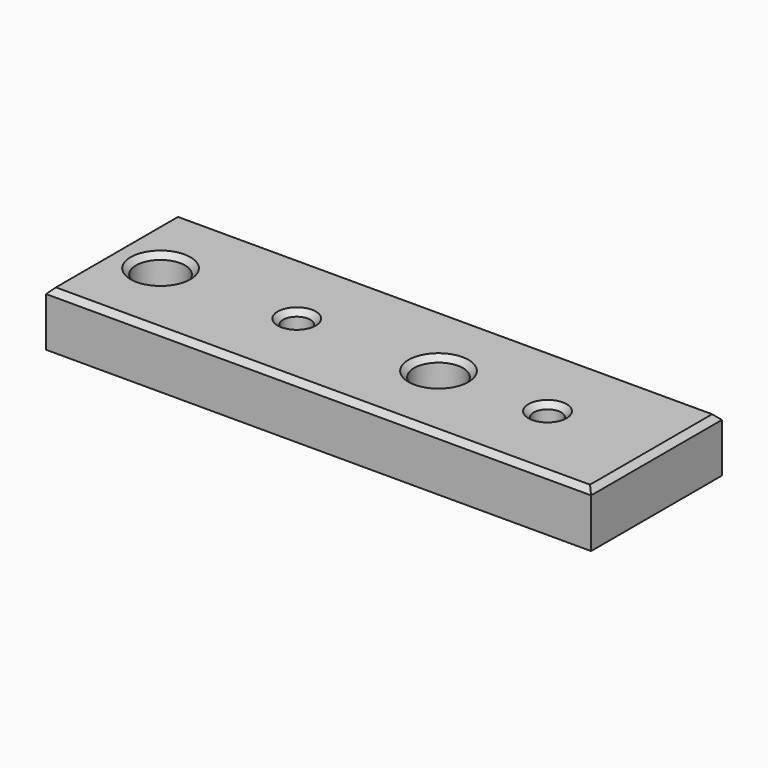
from build123d import *

# Parameters (mm, degrees)
F0_W     = 100
F0_H     = 30
F0_R     = 4.5
F0_R_2   = 2.5
F1_DEPTH = 10
F2_SIZE  = 1
F3_SIZE  = 1


with BuildPart() as f1:
    # F0 (on Top) → F1 (new body)
    with BuildSketch(Plane.XY):
        with Locations((-0.392441, 4.993296)):
            Rectangle(F0_W, F0_H)
        with Locations((-41.392441, 4.993296)):
            Circle(F0_R, mode=Mode.SUBTRACT)
        with Locations((-16.392441, 4.993296)):
            Circle(F0_R_2, mode=Mode.SUBTRACT)
        with Locations((9.607559, 4.993296)):
            Circle(F0_R, mode=Mode.SUBTRACT)
        with Locations((29.607559, 4.993296)):
            Circle(F0_R_2, mode=Mode.SUBTRACT)
    extrude(amount=F1_DEPTH)

    # F2
    f2_edges = [f1.edges().sort_by_distance(p)[0] for p in [
        (-0.392441, -10.006704, 10),
        (-50.392441, 4.993296, 10),
        (-0.392441, 19.993296, 10),
        (49.607559, 4.993296, 10),
    ]]
    chamfer(f2_edges, length=F2_SIZE)

    # F3
    f3_edges = [f1.edges().sort_by_distance(p)[0] for p in [
        (-45.892441, 4.993296, 10),
        (-18.892441, 4.993296, 10),
        (5.107559, 4.993296, 10),
        (27.107559, 4.993296, 10),
    ]]
    chamfer(f3_edges, length=F3_SIZE)


solid = f1.part
